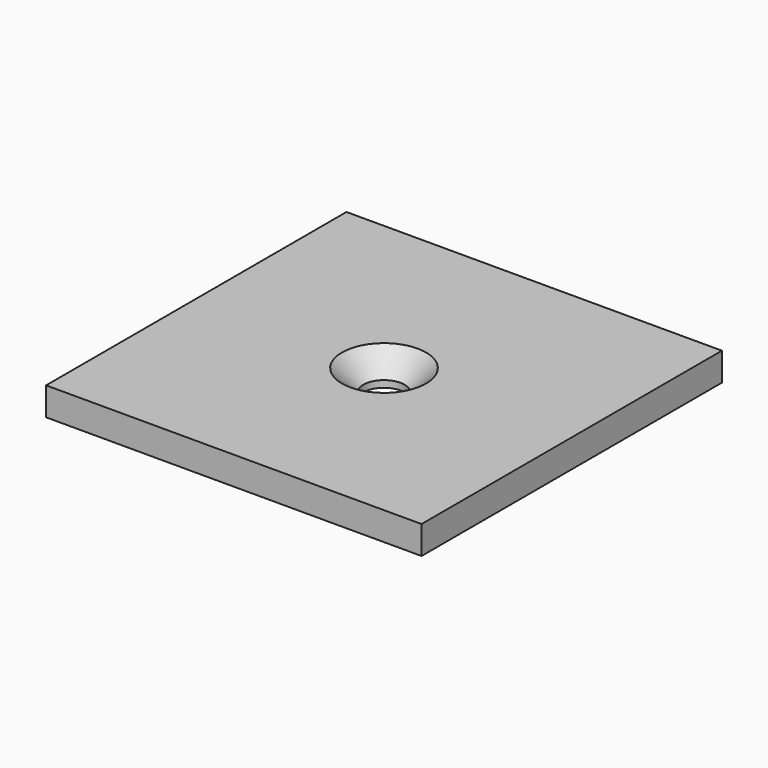
from build123d import *

# Parameters (mm, degrees)
F0_W           = 40
F0_H           = 40
F1_DEPTH       = 3
F3_D           = 4.4
F3_CSINK_D     = 8.96
F3_CSINK_ANGLE = 90


with BuildPart() as f1:
    # F0 (on Top) → F1 (new body)
    with BuildSketch(Plane.XY):
        Rectangle(F0_W, F0_H)
    extrude(amount=F1_DEPTH)

    # F3 (through all)
    with Locations(Plane.XY.offset(3)):
        with Locations((0, 0)):
            CounterSinkHole(F3_D / 2, F3_CSINK_D / 2, counter_sink_angle=F3_CSINK_ANGLE)


solid = f1.part
